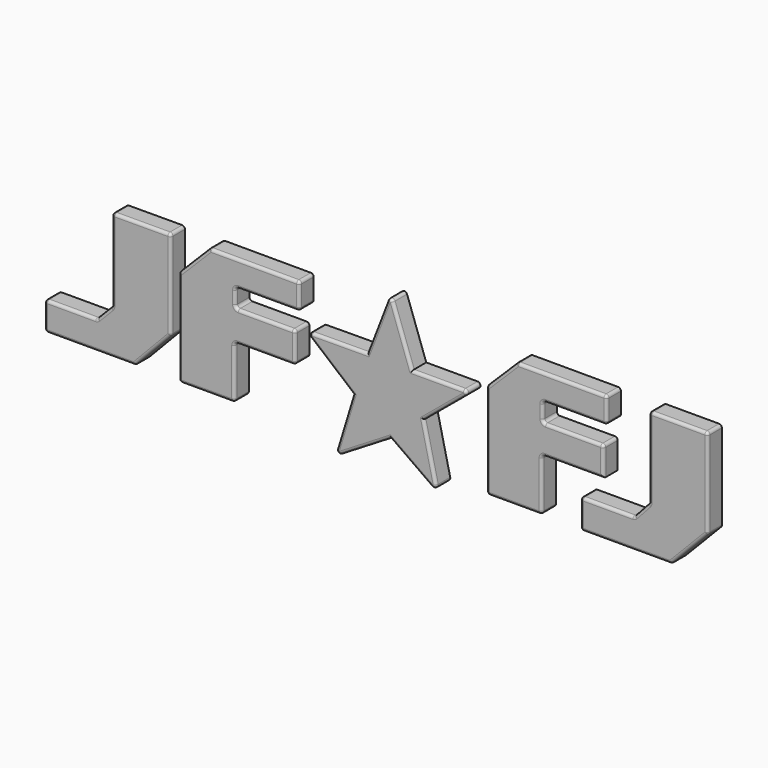
from build123d import *

# Parameters (mm, degrees)
F1_DEPTH  = 6.35
F3_DEPTH  = 6.35
F5_DEPTH  = 6.35
F6_R      = 1.016
F7_R      = 1.016
F8_R      = 1.016
F10_DEPTH = 6.35
F11_R     = 1.016
F13_DEPTH = 6.35
F14_R     = 1.016
F15_R     = 1.016
F16_R     = 1.016
F17_R     = 1.016
F18_R     = 1.016
F19_R     = 1.016


with BuildPart() as f1:
    # F0 (on Front) → F1 (new body)
    with BuildSketch(Plane.XZ):
        Polygon((-78.551739, 22.120997), (-99.580288, 22.068959), (-99.580288, -7.563537), (-104.972348, -13.098753), (-123.677567, -13.098753), (-123.677567, -23.33243), (-91.376297, -23.33243), (-78.551739, -9.883663), align=None)
    extrude(amount=F1_DEPTH)

    # F8
    f8_edges = [f1.edges().sort_by_distance(p)[0] for p in [
        (-99.580288, -3.175, 22.068959),
        (-99.580288, -3.175, -7.563537),
        (-104.972348, -3.175, -13.098753),
        (-123.677567, -3.175, -13.098753),
        (-123.677567, -3.175, -23.33243),
        (-78.551739, -3.175, 22.120997),
        (-91.376297, -3.175, -23.33243),
        (-78.551739, -3.175, -9.883663),
    ]]
    fillet(f8_edges, radius=F8_R)

    # F15
    f15_edges = [f1.edges().sort_by_distance(p)[0] for p in [
        (-89.068528, -6.35, 22.094972),
        (-78.850208, -6.35, 21.821789),
        (-99.283597, -6.35, 21.773001),
        (-78.551739, -6.35, 5.812795),
        (-99.580288, -6.35, 6.952499),
        (-78.624526, -6.35, -9.854521),
        (-99.6551, -6.35, -7.533121),
        (-84.954261, -6.35, -16.597814),
        (-102.270877, -6.35, -10.32556),
        (-91.411419, -6.35, -23.250408),
        (-105.00606, -6.35, -13.018848),
        (-107.236456, -6.35, -23.33243),
        (-114.031287, -6.35, -13.098753),
        (-123.379987, -6.35, -23.034851),
        (-123.379987, -6.35, -13.396333),
        (-123.677567, -6.35, -18.215592),
    ]]
    fillet(f15_edges, radius=F15_R)


with BuildPart() as f3:
    # F2 (on Front) → F3 (new body)
    with BuildSketch(Plane.XZ):
        Polygon((-32.505922, 22.07702), (-64.567327, 22.133766), (-75.632773, 11.01158), (-75.632773, -23.546644), (-55.714976, -23.546644), (-55.714976, -4.707021), (-34.038059, -4.707021), (-34.038059, 6.244928), (-55.431243, 6.244928), (-55.431243, 12.770701), (-32.505922, 12.770701), align=None)
    extrude(amount=F3_DEPTH)

    # F7
    f7_edges = [f3.edges().sort_by_distance(p)[0] for p in [
        (-32.505922, -3.175, 22.07702),
        (-32.505922, -3.175, 12.770701),
        (-34.038059, -3.175, 6.244928),
        (-34.038059, -3.175, -4.707021),
        (-55.714976, -3.175, -23.546644),
        (-55.431243, -3.175, 6.244928),
        (-55.431243, -3.175, 12.770701),
        (-75.632773, -3.175, -23.546644),
        (-75.632773, -3.175, 11.01158),
        (-64.567327, -3.175, 22.133766),
        (-55.714976, -3.175, -4.707021),
    ]]
    fillet(f7_edges, radius=F7_R)

    # F16
    f16_edges = [f3.edges().sort_by_distance(p)[0] for p in [
        (-48.832017, -6.35, 22.105916),
        (-32.802866, -6.35, 21.780601),
        (-64.534884, -6.35, 22.055526),
        (-32.505922, -6.35, 17.424759),
        (-70.101496, -6.35, 16.57122),
        (-32.803502, -6.35, 13.068281),
        (-75.555931, -6.35, 10.979866),
        (-43.968583, -6.35, 12.770701),
        (-75.632773, -6.35, -5.969192),
        (-55.133664, -6.35, 12.473122),
        (-75.335194, -6.35, -23.249064),
        (-55.431243, -6.35, 9.507815),
        (-65.673875, -6.35, -23.546644),
        (-55.133664, -6.35, 6.542508),
        (-56.012556, -6.35, -23.249064),
        (-44.734651, -6.35, 6.244928),
        (-55.714976, -6.35, -14.126832),
        (-34.335639, -6.35, 5.947349),
        (-55.417397, -6.35, -5.004601),
        (-34.038059, -6.35, 0.768953),
        (-44.876518, -6.35, -4.707021),
        (-34.335639, -6.35, -4.409442),
    ]]
    fillet(f16_edges, radius=F16_R)


with BuildPart() as f5:
    # F4 (on Front) → F5 (new body)
    with BuildSketch(Plane.XZ):
        Polygon((0, 29.114505), (-8.285804, 7.587566), (-30.690016, 7.452601), (-13.346996, -7.123635), (-19.960288, -28.853022), (0, -16.706159), (16.952679, -28.718056), (11.891485, -6.921187), (28.964575, 7.250153), (7.775048, 7.250153), align=None)
    extrude(amount=F5_DEPTH)

    # F6
    f6_edges = [f5.edges().sort_by_distance(p)[0] for p in [
        (0, -3.175, 29.114505),
        (-30.690016, -3.175, 7.452601),
        (-19.960288, -3.175, -28.853022),
        (16.952679, -3.175, -28.718056),
        (28.964575, -3.175, 7.250153),
    ]]
    fillet(f6_edges, radius=F6_R)

    # F17
    f17_edges = [f5.edges().sort_by_distance(p)[0] for p in [
        (16.962412, -6.35, 7.250153),
        (27.105427, -6.35, 6.579095),
        (4.34731, -6.35, 16.889357),
        (19.345083, -6.35, -0.734406),
        (-0.024614, -6.35, 27.204065),
        (14.11967, -6.35, -16.517233),
        (-4.635847, -6.35, 17.070338),
        (15.924504, -6.35, -27.186605),
        (-18.1069, -6.35, 7.528403),
        (7.385398, -6.35, -21.939116),
        (-28.877508, -6.35, 6.798256),
        (-8.842218, -6.35, -22.087104),
        (-20.961284, -6.35, -0.724077),
        (-18.835359, -6.35, -27.402899),
        (-16.265794, -6.35, -16.713971),
    ]]
    fillet(f17_edges, radius=F17_R)


with BuildPart() as f10:
    # F9 (on Front) → F10 (new body)
    with BuildSketch(Plane.XZ):
        Polygon((77.422112, 21.869281), (45.451462, 21.916999), (34.476463, 11.037435), (34.476463, -23.128211), (54.231461, -23.128211), (54.231461, -4.422997), (76.276891, -4.422997), (76.276891, 5.979393), (54.517765, 5.979393), (54.517765, 12.659826), (77.422112, 12.659826), align=None)
    extrude(amount=F10_DEPTH)

    # F11
    f11_edges = [f10.edges().sort_by_distance(p)[0] for p in [
        (45.451462, -3.175, 21.916999),
        (34.476463, -3.175, 11.037435),
        (76.276891, -3.175, 5.979393),
        (77.422112, -3.175, 12.659826),
        (77.422112, -3.175, 21.869281),
        (54.517765, -3.175, 5.979393),
        (54.231461, -3.175, -23.128211),
        (54.231461, -3.175, -4.422997),
        (54.517765, -3.175, 12.659826),
        (34.476463, -3.175, -23.128211),
    ]]
    fillet(f11_edges, radius=F11_R)

    # F18
    f18_edges = [f10.edges().sort_by_distance(p)[0] for p in [
        (61.139111, -6.35, 21.893584),
        (77.125069, -6.35, 21.572681),
        (45.483022, -6.35, 21.840171),
        (77.422112, -6.35, 17.265311),
        (39.965493, -6.35, 16.478734),
        (77.124533, -6.35, 12.957406),
        (34.554652, -6.35, 11.004848),
        (65.969938, -6.35, 12.659826),
        (34.476463, -6.35, -5.749109),
        (54.815344, -6.35, 12.362247),
        (34.774042, -6.35, -22.830632),
        (54.517765, -6.35, 9.319609),
        (44.353962, -6.35, -23.128211),
        (54.815344, -6.35, 6.276972),
        (53.933882, -6.35, -22.830632),
        (65.397328, -6.35, 5.979393),
        (54.231461, -6.35, -13.775604),
        (75.979311, -6.35, 5.681813),
        (54.529041, -6.35, -4.720577),
        (76.276891, -6.35, 0.270198),
        (65.762176, -6.35, -4.422997),
    ]]
    fillet(f18_edges, radius=F18_R)


with BuildPart() as f13:
    # F12 (on Front) → F13 (new body)
    with BuildSketch(Plane.XZ):
        Polygon((113.552995, 22.028055), (92.605069, 22.028055), (92.605069, -6.984114), (87.213002, -12.90107), (68.030611, -12.90107), (68.030611, -23.494329), (100.43072, -23.494329), (113.552995, -9.942592), align=None)
    extrude(amount=F13_DEPTH)

    # F14
    f14_edges = [f13.edges().sort_by_distance(p)[0] for p in [
        (68.030611, -3.175, -12.90107),
        (87.213002, -3.175, -12.90107),
        (92.605069, -3.175, -6.984114),
        (92.605069, -3.175, 22.028055),
        (113.552995, -3.175, 22.028055),
        (113.552995, -3.175, -9.942592),
        (100.43072, -3.175, -23.494329),
        (68.030611, -3.175, -23.494329),
    ]]
    fillet(f14_edges, radius=F14_R)

    # F19
    f19_edges = [f13.edges().sort_by_distance(p)[0] for p in [
        (103.079032, -6.35, 22.028055),
        (113.255416, -6.35, 21.730476),
        (92.902649, -6.35, 21.730476),
        (113.552995, -6.35, 5.740377),
        (92.605069, -6.35, 7.210718),
        (113.478756, -6.35, -9.912539),
        (92.536494, -6.35, -6.957555),
        (106.998523, -6.35, -16.711577),
        (89.927633, -6.35, -9.922184),
        (100.396614, -6.35, -23.413831),
        (87.174752, -6.35, -12.814463),
        (84.523438, -6.35, -23.494329),
        (77.905448, -6.35, -12.90107),
        (68.32819, -6.35, -23.19675),
        (68.32819, -6.35, -13.198649),
        (68.030611, -6.35, -18.197699),
    ]]
    fillet(f19_edges, radius=F19_R)


solid = Compound([f1.part, f3.part, f5.part, f10.part, f13.part])
